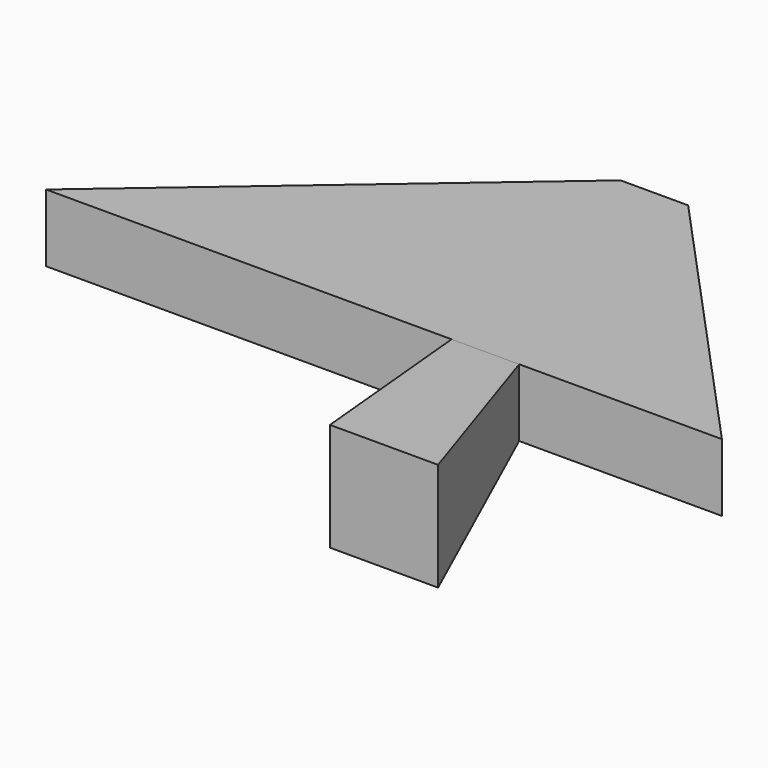
from build123d import *

# Parameters (mm, degrees)
F0_W = 25.4
F0_H = 2.54
F2_W = 254
F2_H = 25.4
F4_W = 25.4
F4_H = 25.4
F6_W = 40.64
F6_H = 40.64


with BuildPart() as f3:
    # F0 (on Front) → F3 section 0
    with BuildSketch(Plane.XZ):
        Rectangle(F0_W, F0_H)
    # F2 (on offset) → F3 section 1
    with BuildSketch(Plane.XZ.offset(127)):
        Rectangle(F2_W, F2_H)
    loft()

    # F4 (on face) → F7 section 0
    with BuildSketch(Plane.XZ.offset(127)):
        with Locations((38.1, 0)):
            Rectangle(F4_W, F4_H)
    # F6 (on offset) → F7 section 1
    with BuildSketch(Plane.XZ.offset(203.2)):
        with Locations((60.96, 0)):
            Rectangle(F6_W, F6_H)
    loft()


solid = f3.part
